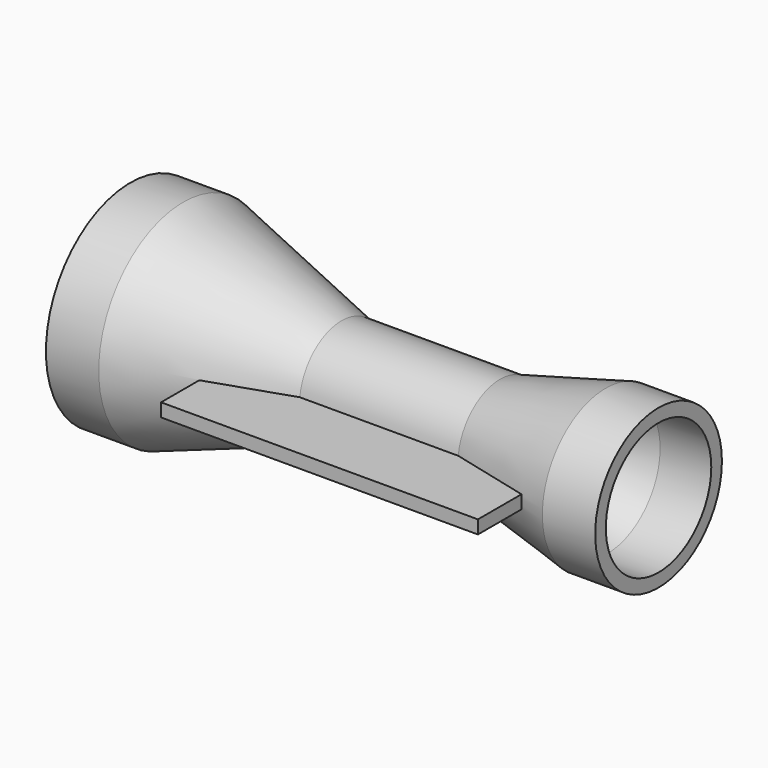
from build123d import *

# Parameters (mm, degrees)
F3_W = 76.2
F3_H = 3.2


with BuildPart() as f1:
    # F0 (on Top) → F1 (revolve)
    with BuildSketch(Plane.XY):
        Polygon((44.843938002, 15.85), (57.15, 15.85), (57.15, 19.05), (44.45, 19.05), (19.05, 12.7), (-19.05, 12.7), (-57.15, 25.4), (-69.85, 25.4), (-69.85, 22.2), (-57.6692885125, 22.2), (-19.5692885125, 9.5), (19.443938002, 9.5), align=None)
    revolve(axis=Axis((-6.35, 0, 0), (1, 0, 0)))

    # F3 (on offset) → F4 (join, up to the next surface of F1)
    with BuildSketch(Plane.XZ.offset(30.48)):
        Rectangle(F3_W, F3_H)
    extrude(until=Until.NEXT, dir=(0, 1, 0))


solid = f1.part
